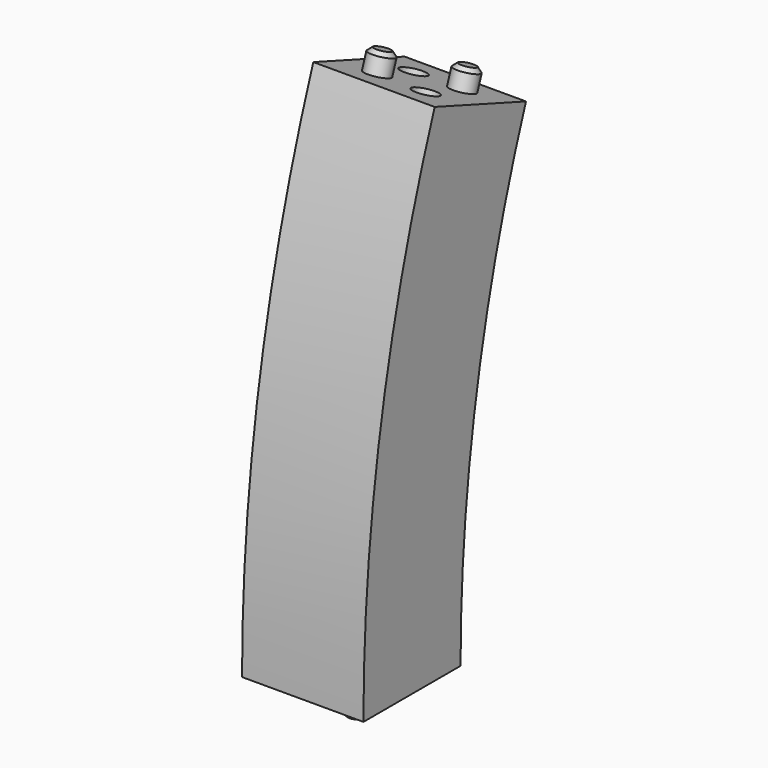
from build123d import *

# Parameters (mm, degrees)
F1_DEPTH  = 30
F2_R      = 3
F3_DEPTH  = 5
F4_SIZE   = 1
F5_R      = 3
F6_DEPTH  = 5
F7_SIZE   = 1
F8_R      = 3.05
F9_DEPTH  = 5.5
F10_R     = 3.05
F11_DEPTH = 5.5


with BuildPart() as f1:
    # F0 (on Right) → F1 (new body)
    with BuildSketch(Plane.YZ):
        with BuildLine():
            ThreePointArc((7.0121934131, 124.8373523139), (-9.4548298495, 63.3815848484), (-15, 0))
            Line((-15, 0), (15, 0))
            ThreePointArc((15, 0), (20.0894027409, 58.1721395184), (35.2029720367, 114.5767480141))
            Line((35.2029720367, 114.5767480141), (7.0121934131, 124.8373523139))
        make_face()
    extrude(amount=F1_DEPTH)

    # F2 (on face) → F3 (join)
    with BuildSketch(Plane(origin=(0, 40.9422224542, 112.4878316951), x_dir=(1, 0, 0), z_dir=(0, 0.3420201433, 0.9396926208))):
        with Locations((9, -27.1075827249)):
            Circle(F2_R)
        with Locations((21, -15.1075827249)):
            Circle(F2_R)
    extrude(amount=F3_DEPTH)

    # F4
    f4_edges = [f1.edges().sort_by_distance(p)[0] for p in [
        (6, 17.179528, 126.457634),
        (18, 28.455839, 122.353392),
    ]]
    chamfer(f4_edges, length=F4_SIZE)

    # F5 (on face) → F6 (join)
    with BuildSketch(Plane(origin=(0, 0, 0), x_dir=(1, 0, 0), z_dir=(0, 0, -1))):
        with Locations((9, -6)):
            Circle(F5_R)
        with Locations((21, 6)):
            Circle(F5_R)
    extrude(amount=F6_DEPTH)

    # F7
    f7_edges = [f1.edges().sort_by_distance(p)[0] for p in [
        (6, 6, -5),
        (18, -6, -5),
    ]]
    chamfer(f7_edges, length=F7_SIZE)

    # F8 (on face) → F9 (cut)
    with BuildSketch(Plane(origin=(0, 40.9422224542, 112.4878316951), x_dir=(1, 0, 0), z_dir=(0, 0.3420201433, 0.9396926208))):
        with Locations((9, -15.1075827249)):
            Circle(F8_R)
        with Locations((21, -27.1075827249)):
            Circle(F8_R)
    extrude(amount=-F9_DEPTH, mode=Mode.SUBTRACT)

    # F10 (on face) → F11 (cut)
    with BuildSketch(Plane(origin=(0, 0, 0), x_dir=(1, 0, 0), z_dir=(0, 0, -1))):
        with Locations((9, 6)):
            Circle(F10_R)
        with Locations((21, -6)):
            Circle(F10_R)
    extrude(amount=-F11_DEPTH, mode=Mode.SUBTRACT)


solid = f1.part
